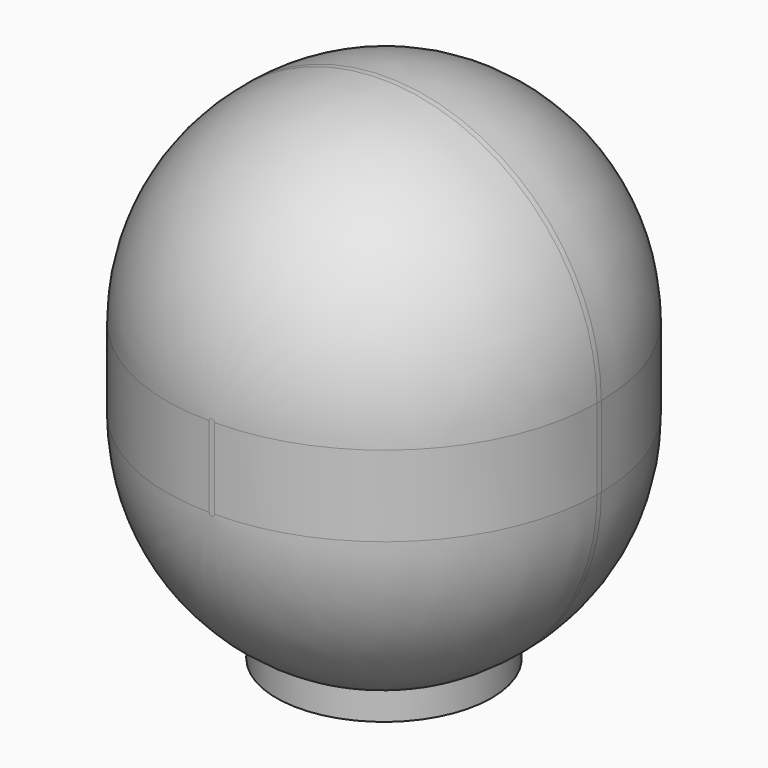
from build123d import *

# Parameters (mm, degrees)
PAD002_DEPTH   = 160
FILLET004_R    = 79
CYLINDER_R     = 40
CYLINDER_DEPTH = 47.5


with BuildPart() as part:
    # Sketch010 → Pad002 (new body)
    with BuildSketch(Plane.XZ):
        with BuildLine():
            ThreePointArc((80, 110), (0, 190), (-80, 110))
            Line((-80, 110), (-80, 80))
            ThreePointArc((-80, 80), (0, 0), (80, 80))
            Line((80, 110), (80, 80))
        make_face()
    extrude(amount=PAD002_DEPTH)

    # Fillet004
    fillet004_edges = [part.edges().sort_by_distance(p)[0] for p in [
        (0, 0, 190),
        (-80, 0, 95),
        (0, 0, 0),
        (80, 0, 95),
        (0, -160, 190),
        (-80, -160, 95),
        (0, -160, 0),
        (80, -160, 95),
    ]]
    fillet(fillet004_edges, radius=FILLET004_R)

    # Cylinder → Cylinder (join)
    with BuildSketch(Plane(origin=(0, -80, 0), x_dir=(1, 0, 0), z_dir=(0, 0, 1))):
        Circle(CYLINDER_R)
    extrude(amount=CYLINDER_DEPTH)


solid = part.part
